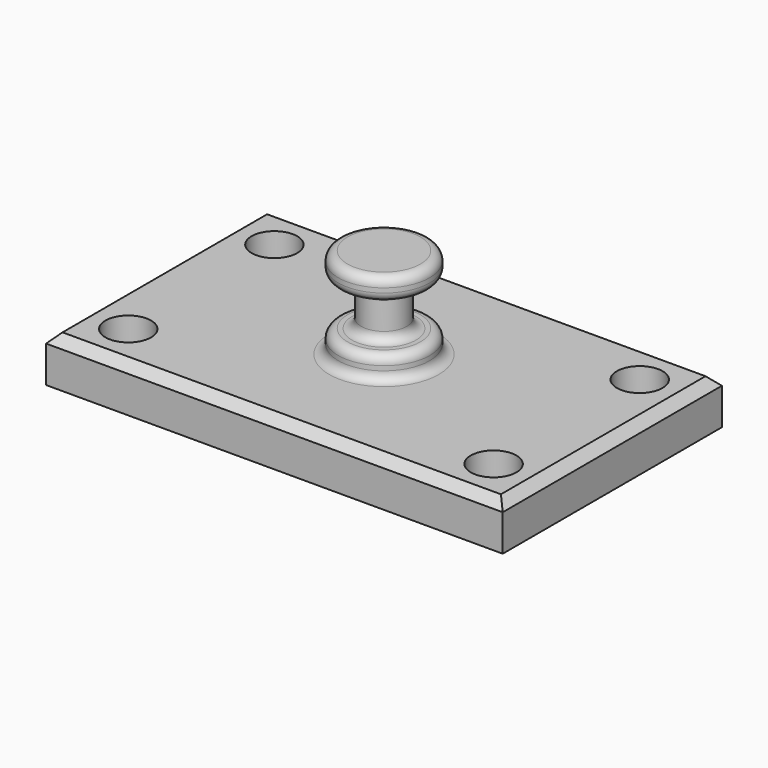
from build123d import *

# Parameters (mm, degrees)
F0_W     = 127
F0_H     = 76.2
F1_DEPTH = 6.35
F2_R     = 6.35
F3_DEPTH = 25.4
F4_W     = 12.7
F4_H     = 25.4
F6_W     = 12.7
F6_H     = 12.7
F8_R     = 2.54
F9_SIZE  = 2.54
F10_R    = 2.54
F11_R    = 2.54


with BuildPart() as f1:
    # F0 (on Top) → F1 (new body, symmetric)
    with BuildSketch(Plane.XY):
        Rectangle(F0_W, F0_H)
    extrude(amount=F1_DEPTH, both=True)

    # F2 (on face) → F3 (cut)
    with BuildSketch(Plane.XY.offset(6.35)):
        with Locations((-50.8, 25.4)):
            Circle(F2_R)
        with Locations((50.8, 25.4)):
            Circle(F2_R)
        with Locations((50.8, -25.4)):
            Circle(F2_R)
        with Locations((-50.8, -25.4)):
            Circle(F2_R)
    extrude(amount=-F3_DEPTH, mode=Mode.SUBTRACT)

    # F4 (on Front) → F5 (revolve)
    with BuildSketch(Plane.XZ):
        with Locations((6.35, 19.05)):
            Rectangle(F4_W, F4_H)
    revolve(axis=Axis((0, 0, 19.05), (0, 0, 1)))

    # F6 (on Right) → F7 (revolve, cut)
    with BuildSketch(Plane.YZ):
        with Locations((12.7, 19.05)):
            Rectangle(F6_W, F6_H)
    revolve(axis=Axis((0, 0, 19.0770364478), (0, 0, -1)), mode=Mode.SUBTRACT)

    # F8
    f8_edges = [f1.edges().sort_by_distance(p)[0] for p in [
        (-12.7, 0, 31.75),
        (-12.7, 0, 6.35),
    ]]
    fillet(f8_edges, radius=F8_R)

    # F9
    f9_edges = [f1.edges().sort_by_distance(p)[0] for p in [
        (0, 38.1, 6.35),
        (-63.5, 0, 6.35),
        (0, -38.1, 6.35),
        (63.5, 0, 6.35),
    ]]
    chamfer(f9_edges, length=F9_SIZE)

    # F10
    f10_edges = [f1.edges().sort_by_distance(p)[0] for p in [
        (-12.7, 0, 25.4),
        (-12.7, 0, 12.7),
    ]]
    fillet(f10_edges, radius=F10_R)

    # F11
    f11_edges = [f1.edges().sort_by_distance(p)[0] for p in [
        (0, -6.35, 12.7),
        (0, -6.35, 25.4),
    ]]
    fillet(f11_edges, radius=F11_R)


solid = f1.part
